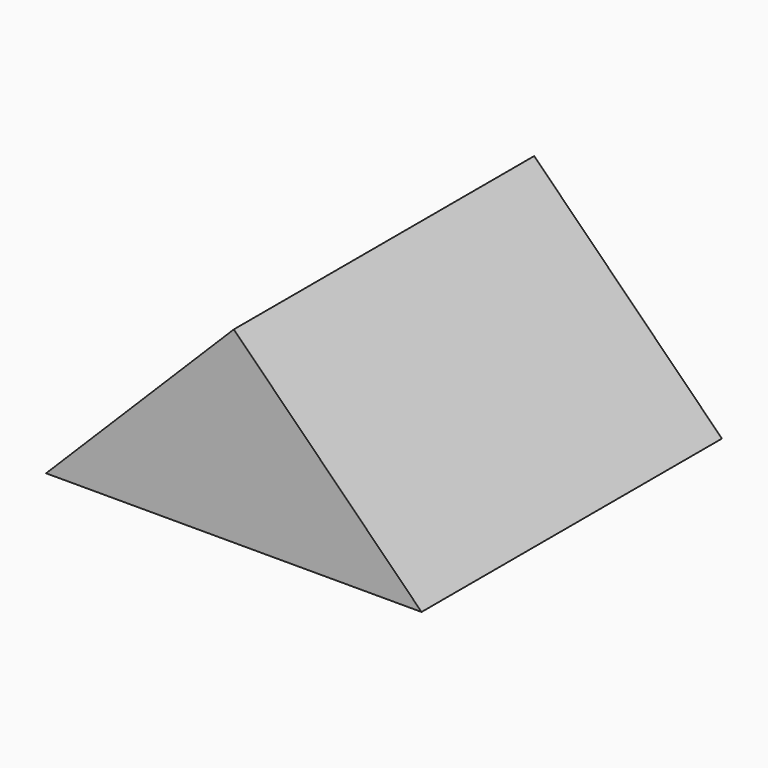
from build123d import *

# Parameters (mm, degrees)
F0_W     = 25.4
F0_H     = 25.4
F1_DEPTH = 25.4
F3_DEPTH = 25.4


with BuildPart() as f1:
    # F0 (on Front) → F1 (new body)
    with BuildSketch(Plane.XZ):
        with Locations((4.283509, 10.08599)):
            Rectangle(F0_W, F0_H)
    extrude(amount=F1_DEPTH)

    # F2 (on face) → F3 (cut)
    with BuildSketch(Plane(origin=(0, 0, 0), x_dir=(-1, 0, 0), z_dir=(0, 1, 0))):
        Polygon((-16.983509, -2.61401), (-4.283509, 10.08599), (8.416491, -2.61401), (8.416491, 22.78599), (-16.983509, 22.78599), align=None)
    extrude(amount=-F3_DEPTH, mode=Mode.SUBTRACT)


solid = f1.part
